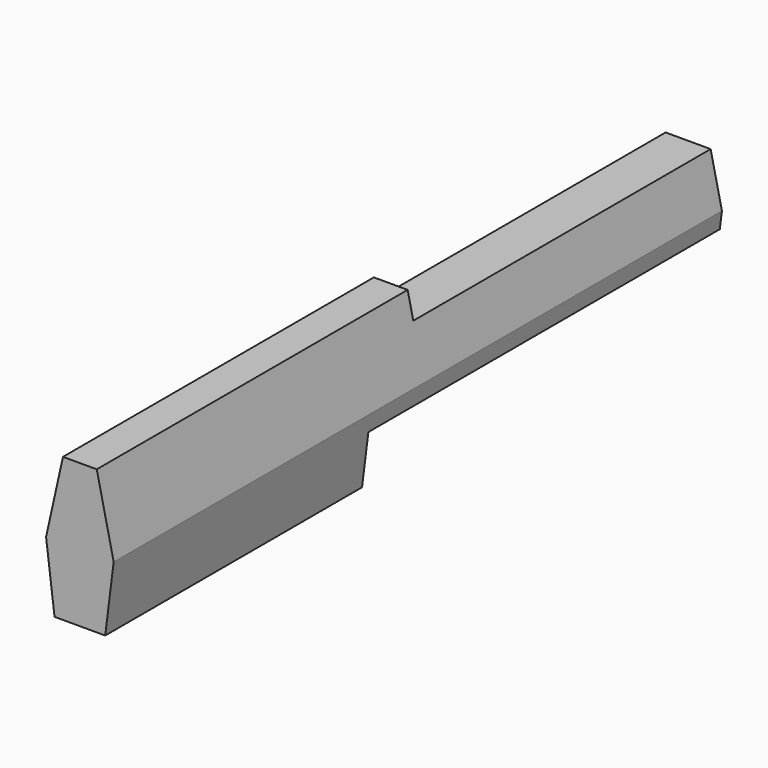
from build123d import *

# Parameters (mm, degrees)
F1_DEPTH = 450
F3_DEPTH = 220
F5_DEPTH = 260


with BuildPart() as f1:
    # F0 (on Front) → F1 (new body)
    with BuildSketch(Plane.XZ):
        Polygon((10, 45), (-10, 45), (-20, 0), (-15, -40), (15, -40), (20, 0), align=None)
    extrude(amount=F1_DEPTH)

    # F2 (on face) → F3 (cut)
    with BuildSketch(Plane(origin=(0, 0, 0), x_dir=(-1, 0, 0), z_dir=(0, 1, 0))):
        Polygon((-10, 45), (-13.3333333333, 30), (13.3333333333, 30), (10, 45), align=None)
    extrude(amount=-F3_DEPTH, mode=Mode.SUBTRACT)

    # F4 (on face) → F5 (cut)
    with BuildSketch(Plane(origin=(0, 0, 0), x_dir=(-1, 0, 0), z_dir=(0, 1, 0))):
        Polygon((18.75, -10), (-18.75, -10), (-15, -40), (15, -40), align=None)
    extrude(amount=-F5_DEPTH, mode=Mode.SUBTRACT)


solid = f1.part
